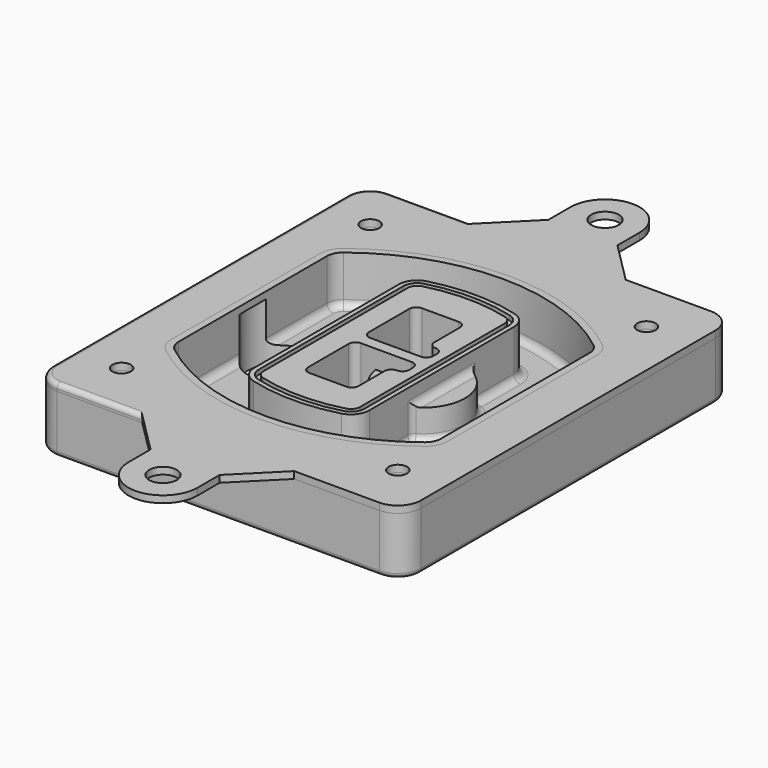
from build123d import *

# Parameters (mm, degrees)
F0_R      = 4
F1_DEPTH  = 25
F2_DEPTH  = 3
F3_DEPTH  = 18
F5_DEPTH  = 21
F6_DEPTH  = 2
F8_DEPTH  = 20
F9_DEPTH  = 16
F10_DEPTH = 25
F7_R      = 6
F7_R_2    = 4
F11_DEPTH = 6
F13_DEPTH = 9
F14_R     = 3
F15_R     = 2
F16_R     = 4
F16_R_2   = 6
F17_DEPTH = 3
F18_R     = 2


with BuildPart() as f1:
    # F0 (on Top) → F1 (new body)
    with BuildSketch(Plane.XY):
        with BuildLine():
            ThreePointArc((-80, -80), (-77.0710678119, -87.0710678119), (-70, -90))
            Line((-70, -90), (70, -90))
            ThreePointArc((70, -90), (77.0710678119, -87.0710678119), (80, -80))
            Line((80, -80), (80, 80))
            ThreePointArc((80, 80), (77.0710678119, 87.0710678119), (70, 90))
            Line((70, 90), (-70, 90))
            ThreePointArc((-70, 90), (-77.0710678119, 87.0710678119), (-80, 80))
            Line((-80, 80), (-80, -80))
        make_face()
        with Locations((-60, -67.5)):
            Circle(F0_R, mode=Mode.SUBTRACT)
        with Locations((60, -67.5)):
            Circle(F0_R, mode=Mode.SUBTRACT)
        with Locations((-60, 67.5)):
            Circle(F0_R, mode=Mode.SUBTRACT)
        with BuildLine():
            ThreePointArc((-64, 40.2934422872), (-62.5820384798, 46.4328484224), (-58.6153846154, 51.3286200352))
            ThreePointArc((-58.6153846154, 51.3286200352), (0, 71.5), (58.6153846154, 51.3286200352))
            ThreePointArc((58.6153846154, 51.3286200352), (62.5820384798, 46.4328484224), (64, 40.2934422872))
            Line((64, 40.2934422872), (64, -40.2934422872))
            ThreePointArc((64, -40.2934422872), (62.5820384798, -46.4328484224), (58.6153846154, -51.3286200352))
            ThreePointArc((58.6153846154, -51.3286200352), (0, -71.5), (-58.6153846154, -51.3286200352))
            ThreePointArc((-58.6153846154, -51.3286200352), (-62.5820384798, -46.4328484224), (-64, -40.2934422872))
            Line((-64, -40.2934422872), (-64, 40.2934422872))
        make_face(mode=Mode.SUBTRACT)
        with Locations((60, 67.5)):
            Circle(F0_R, mode=Mode.SUBTRACT)
        with BuildLine():
            ThreePointArc((58.6153846154, 51.3286200352), (0, 71.5), (-58.6153846154, 51.3286200352))
            ThreePointArc((-58.6153846154, 51.3286200352), (-62.5820384798, 46.4328484224), (-64, 40.2934422872))
            Line((-64, 40.2934422872), (-64, -40.2934422872))
            ThreePointArc((-64, -40.2934422872), (-62.5820384798, -46.4328484224), (-58.6153846154, -51.3286200352))
            ThreePointArc((-58.6153846154, -51.3286200352), (0, -71.5), (58.6153846154, -51.3286200352))
            ThreePointArc((58.6153846154, -51.3286200352), (62.5820384798, -46.4328484224), (64, -40.2934422872))
            Line((64, -40.2934422872), (64, 40.2934422872))
            ThreePointArc((64, 40.2934422872), (62.5820384798, 46.4328484224), (58.6153846154, 51.3286200352))
        make_face()
        with BuildLine():
            Line((-60, -40.2934422872), (-60, 40.2934422872))
            ThreePointArc((-60, 40.2934422872), (-58.9871703427, 44.6787323838), (-56.1538461538, 48.1757121072))
            ThreePointArc((-56.1538461538, 48.1757121072), (0, 67.5), (56.1538461538, 48.1757121072))
            ThreePointArc((56.1538461538, 48.1757121072), (58.9871703427, 44.6787323838), (60, 40.2934422872))
            Line((60, 40.2934422872), (60, -40.2934422872))
            ThreePointArc((60, -40.2934422872), (58.9871703427, -44.6787323838), (56.1538461538, -48.1757121072))
            ThreePointArc((56.1538461538, -48.1757121072), (0, -67.5), (-56.1538461538, -48.1757121072))
            ThreePointArc((-56.1538461538, -48.1757121072), (-58.9871703427, -44.6787323838), (-60, -40.2934422872))
        make_face(mode=Mode.SUBTRACT)
        with BuildLine():
            ThreePointArc((-56.1538461538, 48.1757121072), (-58.9871703427, 44.6787323838), (-60, 40.2934422872))
            Line((-60, 40.2934422872), (-60, -40.2934422872))
            ThreePointArc((-60, -40.2934422872), (-58.9871703427, -44.6787323838), (-56.1538461538, -48.1757121072))
            ThreePointArc((-56.1538461538, -48.1757121072), (0, -67.5), (56.1538461538, -48.1757121072))
            ThreePointArc((56.1538461538, -48.1757121072), (58.9871703427, -44.6787323838), (60, -40.2934422872))
            Line((60, -40.2934422872), (60, 40.2934422872))
            ThreePointArc((60, 40.2934422872), (58.9871703427, 44.6787323838), (56.1538461538, 48.1757121072))
            ThreePointArc((56.1538461538, 48.1757121072), (0, 67.5), (-56.1538461538, 48.1757121072))
        make_face()
        with BuildLine():
            ThreePointArc((54.3076923077, 45.8110311612), (56.2910192399, 43.3631453548), (57, 40.2934422872))
            Line((57, 40.2934422872), (57, -40.2934422872))
            ThreePointArc((57, -40.2934422872), (56.2910192399, -43.3631453548), (54.3076923077, -45.8110311612))
            ThreePointArc((54.3076923077, -45.8110311612), (0, -64.5), (-54.3076923077, -45.8110311612))
            ThreePointArc((-54.3076923077, -45.8110311612), (-56.2910192399, -43.3631453548), (-57, -40.2934422872))
            Line((-57, -40.2934422872), (-57, 40.2934422872))
            ThreePointArc((-57, 40.2934422872), (-56.2910192399, 43.3631453548), (-54.3076923077, 45.8110311612))
            ThreePointArc((-54.3076923077, 45.8110311612), (0, 64.5), (54.3076923077, 45.8110311612))
        make_face(mode=Mode.SUBTRACT)
        with BuildLine():
            Line((57, -40.2934422872), (57, 40.2934422872))
            ThreePointArc((57, 40.2934422872), (56.2910192399, 43.3631453548), (54.3076923077, 45.8110311612))
            ThreePointArc((54.3076923077, 45.8110311612), (0, 64.5), (-54.3076923077, 45.8110311612))
            ThreePointArc((-54.3076923077, 45.8110311612), (-56.2910192399, 43.3631453548), (-57, 40.2934422872))
            Line((-57, 40.2934422872), (-57, -40.2934422872))
            ThreePointArc((-57, -40.2934422872), (-56.2910192399, -43.3631453548), (-54.3076923077, -45.8110311612))
            ThreePointArc((-54.3076923077, -45.8110311612), (0, -64.5), (54.3076923077, -45.8110311612))
            ThreePointArc((54.3076923077, -45.8110311612), (56.2910192399, -43.3631453548), (57, -40.2934422872))
        make_face()
    extrude(amount=-F1_DEPTH)

    # F0 (on Top) → F2 (join)
    with BuildSketch(Plane.XY):
        with BuildLine():
            ThreePointArc((-56.1538461538, 48.1757121072), (-58.9871703427, 44.6787323838), (-60, 40.2934422872))
            Line((-60, 40.2934422872), (-60, -40.2934422872))
            ThreePointArc((-60, -40.2934422872), (-58.9871703427, -44.6787323838), (-56.1538461538, -48.1757121072))
            ThreePointArc((-56.1538461538, -48.1757121072), (0, -67.5), (56.1538461538, -48.1757121072))
            ThreePointArc((56.1538461538, -48.1757121072), (58.9871703427, -44.6787323838), (60, -40.2934422872))
            Line((60, -40.2934422872), (60, 40.2934422872))
            ThreePointArc((60, 40.2934422872), (58.9871703427, 44.6787323838), (56.1538461538, 48.1757121072))
            ThreePointArc((56.1538461538, 48.1757121072), (0, 67.5), (-56.1538461538, 48.1757121072))
        make_face()
        with BuildLine():
            ThreePointArc((54.3076923077, 45.8110311612), (56.2910192399, 43.3631453548), (57, 40.2934422872))
            Line((57, 40.2934422872), (57, -40.2934422872))
            ThreePointArc((57, -40.2934422872), (56.2910192399, -43.3631453548), (54.3076923077, -45.8110311612))
            ThreePointArc((54.3076923077, -45.8110311612), (0, -64.5), (-54.3076923077, -45.8110311612))
            ThreePointArc((-54.3076923077, -45.8110311612), (-56.2910192399, -43.3631453548), (-57, -40.2934422872))
            Line((-57, -40.2934422872), (-57, 40.2934422872))
            ThreePointArc((-57, 40.2934422872), (-56.2910192399, 43.3631453548), (-54.3076923077, 45.8110311612))
            ThreePointArc((-54.3076923077, 45.8110311612), (0, 64.5), (54.3076923077, 45.8110311612))
        make_face(mode=Mode.SUBTRACT)
    extrude(amount=F2_DEPTH)

    # F0 (on Top) → F3 (cut)
    with BuildSketch(Plane.XY):
        with BuildLine():
            Line((57, -40.2934422872), (57, 40.2934422872))
            ThreePointArc((57, 40.2934422872), (56.2910192399, 43.3631453548), (54.3076923077, 45.8110311612))
            ThreePointArc((54.3076923077, 45.8110311612), (0, 64.5), (-54.3076923077, 45.8110311612))
            ThreePointArc((-54.3076923077, 45.8110311612), (-56.2910192399, 43.3631453548), (-57, 40.2934422872))
            Line((-57, 40.2934422872), (-57, -40.2934422872))
            ThreePointArc((-57, -40.2934422872), (-56.2910192399, -43.3631453548), (-54.3076923077, -45.8110311612))
            ThreePointArc((-54.3076923077, -45.8110311612), (0, -64.5), (54.3076923077, -45.8110311612))
            ThreePointArc((54.3076923077, -45.8110311612), (56.2910192399, -43.3631453548), (57, -40.2934422872))
        make_face()
    extrude(amount=-F3_DEPTH, mode=Mode.SUBTRACT)

    # F4 (on face) → F5 (join, through all)
    with BuildSketch(Plane.XY.offset(3)):
        with BuildLine():
            ThreePointArc((-25, -39.2465276821), (-23.3511545998, -44.1109737193), (-19.0842911877, -46.9702398883))
            ThreePointArc((-19.0842911877, -46.9702398883), (0, -49.5), (19.0842911877, -46.9702398883))
            ThreePointArc((19.0842911877, -46.9702398883), (23.3511545998, -44.1109737193), (25, -39.2465276821))
            Line((25, -39.2465276821), (25, 39.2465276821))
            ThreePointArc((25, 39.2465276821), (23.3511545998, 44.1109737193), (19.0842911877, 46.9702398883))
            ThreePointArc((19.0842911877, 46.9702398883), (0, 49.5), (-19.0842911877, 46.9702398883))
            ThreePointArc((-19.0842911877, 46.9702398883), (-23.3511545998, 44.1109737193), (-25, 39.2465276821))
            Line((-25, 39.2465276821), (-25, -39.2465276821))
        make_face()
        with BuildLine():
            ThreePointArc((18.5632183908, 45.0393118368), (21.7633659499, 42.89486221), (23, 39.2465276821))
            Line((23, 39.2465276821), (23, -39.2465276821))
            ThreePointArc((23, -39.2465276821), (21.7633659499, -42.89486221), (18.5632183908, -45.0393118368))
            ThreePointArc((18.5632183908, -45.0393118368), (0, -47.5), (-18.5632183908, -45.0393118368))
            ThreePointArc((-18.5632183908, -45.0393118368), (-21.7633659499, -42.89486221), (-23, -39.2465276821))
            Line((-23, -39.2465276821), (-23, 39.2465276821))
            ThreePointArc((-23, 39.2465276821), (-21.7633659499, 42.89486221), (-18.5632183908, 45.0393118368))
            ThreePointArc((-18.5632183908, 45.0393118368), (0, 47.5), (18.5632183908, 45.0393118368))
        make_face(mode=Mode.SUBTRACT)
        with BuildLine():
            Line((23, -39.2465276821), (23, 39.2465276821))
            ThreePointArc((23, 39.2465276821), (21.7633659499, 42.89486221), (18.5632183908, 45.0393118368))
            ThreePointArc((18.5632183908, 45.0393118368), (0, 47.5), (-18.5632183908, 45.0393118368))
            ThreePointArc((-18.5632183908, 45.0393118368), (-21.7633659499, 42.89486221), (-23, 39.2465276821))
            Line((-23, 39.2465276821), (-23, -39.2465276821))
            ThreePointArc((-23, -39.2465276821), (-21.7633659499, -42.89486221), (-18.5632183908, -45.0393118368))
            ThreePointArc((-18.5632183908, -45.0393118368), (0, -47.5), (18.5632183908, -45.0393118368))
            ThreePointArc((18.5632183908, -45.0393118368), (21.7633659499, -42.89486221), (23, -39.2465276821))
        make_face()
        with BuildLine():
            ThreePointArc((18.0421455939, 43.1083837852), (20.1755772999, 41.6787507007), (21, 39.2465276821))
            Line((21, 39.2465276821), (21, -39.2465276821))
            ThreePointArc((21, -39.2465276821), (20.1755772999, -41.6787507007), (18.0421455939, -43.1083837852))
            ThreePointArc((18.0421455939, -43.1083837852), (0, -45.5), (-18.0421455939, -43.1083837852))
            ThreePointArc((-18.0421455939, -43.1083837852), (-20.1755772999, -41.6787507007), (-21, -39.2465276821))
            Line((-21, -39.2465276821), (-21, 39.2465276821))
            ThreePointArc((-21, 39.2465276821), (-20.1755772999, 41.6787507007), (-18.0421455939, 43.1083837852))
            ThreePointArc((-18.0421455939, 43.1083837852), (0, 45.5), (18.0421455939, 43.1083837852))
        make_face(mode=Mode.SUBTRACT)
        with BuildLine():
            Line((21, -39.2465276821), (21, 39.2465276821))
            ThreePointArc((21, 39.2465276821), (20.1755772999, 41.6787507007), (18.0421455939, 43.1083837852))
            ThreePointArc((18.0421455939, 43.1083837852), (0, 45.5), (-18.0421455939, 43.1083837852))
            ThreePointArc((-18.0421455939, 43.1083837852), (-20.1755772999, 41.6787507007), (-21, 39.2465276821))
            Line((-21, 39.2465276821), (-21, -39.2465276821))
            ThreePointArc((-21, -39.2465276821), (-20.1755772999, -41.6787507007), (-18.0421455939, -43.1083837852))
            ThreePointArc((-18.0421455939, -43.1083837852), (0, -45.5), (18.0421455939, -43.1083837852))
            ThreePointArc((18.0421455939, -43.1083837852), (20.1755772999, -41.6787507007), (21, -39.2465276821))
        make_face()
        with BuildLine():
            Line((-8, -2.5), (14, -2.5))
            ThreePointArc((14, -2.5), (16.1213203436, -3.3786796564), (17, -5.5))
            Line((17, -5.5), (17, -7.5))
            ThreePointArc((17, -7.5), (16.1213203436, -9.6213203436), (14, -10.5))
            ThreePointArc((14, -10.5), (11.8786796564, -11.3786796564), (11, -13.5))
            Line((11, -13.5), (11, -27.5))
            ThreePointArc((11, -27.5), (10.1213203436, -29.6213203436), (8, -30.5))
            Line((8, -30.5), (-8, -30.5))
            ThreePointArc((-8, -30.5), (-10.1213203436, -29.6213203436), (-11, -27.5))
            Line((-11, -27.5), (-11, -5.5))
            ThreePointArc((-11, -5.5), (-10.1213203436, -3.3786796564), (-8, -2.5))
        make_face(mode=Mode.SUBTRACT)
        with BuildLine():
            ThreePointArc((-8, 2.5), (-10.1213203436, 3.3786796564), (-11, 5.5))
            Line((-11, 5.5), (-11, 27.5))
            ThreePointArc((-11, 27.5), (-10.1213203436, 29.6213203436), (-8, 30.5))
            Line((-8, 30.5), (8, 30.5))
            ThreePointArc((8, 30.5), (10.1213203436, 29.6213203436), (11, 27.5))
            Line((11, 27.5), (11, 13.5))
            ThreePointArc((11, 13.5), (11.8786796564, 11.3786796564), (14, 10.5))
            ThreePointArc((14, 10.5), (16.1213203436, 9.6213203436), (17, 7.5))
            Line((17, 7.5), (17, 5.5))
            ThreePointArc((17, 5.5), (16.1213203436, 3.3786796564), (14, 2.5))
            Line((14, 2.5), (-8, 2.5))
        make_face(mode=Mode.SUBTRACT)
    extrude(amount=-F5_DEPTH)

    # F4 (on face) → F6 (cut)
    with BuildSketch(Plane.XY.offset(3)):
        with BuildLine():
            Line((23, -39.2465276821), (23, 39.2465276821))
            ThreePointArc((23, 39.2465276821), (21.7633659499, 42.89486221), (18.5632183908, 45.0393118368))
            ThreePointArc((18.5632183908, 45.0393118368), (0, 47.5), (-18.5632183908, 45.0393118368))
            ThreePointArc((-18.5632183908, 45.0393118368), (-21.7633659499, 42.89486221), (-23, 39.2465276821))
            Line((-23, 39.2465276821), (-23, -39.2465276821))
            ThreePointArc((-23, -39.2465276821), (-21.7633659499, -42.89486221), (-18.5632183908, -45.0393118368))
            ThreePointArc((-18.5632183908, -45.0393118368), (0, -47.5), (18.5632183908, -45.0393118368))
            ThreePointArc((18.5632183908, -45.0393118368), (21.7633659499, -42.89486221), (23, -39.2465276821))
        make_face()
        with BuildLine():
            ThreePointArc((18.0421455939, 43.1083837852), (20.1755772999, 41.6787507007), (21, 39.2465276821))
            Line((21, 39.2465276821), (21, -39.2465276821))
            ThreePointArc((21, -39.2465276821), (20.1755772999, -41.6787507007), (18.0421455939, -43.1083837852))
            ThreePointArc((18.0421455939, -43.1083837852), (0, -45.5), (-18.0421455939, -43.1083837852))
            ThreePointArc((-18.0421455939, -43.1083837852), (-20.1755772999, -41.6787507007), (-21, -39.2465276821))
            Line((-21, -39.2465276821), (-21, 39.2465276821))
            ThreePointArc((-21, 39.2465276821), (-20.1755772999, 41.6787507007), (-18.0421455939, 43.1083837852))
            ThreePointArc((-18.0421455939, 43.1083837852), (0, 45.5), (18.0421455939, 43.1083837852))
        make_face(mode=Mode.SUBTRACT)
    extrude(amount=-F6_DEPTH, mode=Mode.SUBTRACT)

    # F7 (on face) → F8 (join)
    with BuildSketch(Plane(origin=(0, 0, -25), x_dir=(1, 0, 0), z_dir=(0, 0, -1))):
        with BuildLine():
            ThreePointArc((3.28842436, 0), (16.7567035675, 13.4682792075), (30.224982775, 0))
            Line((30.224982775, 0), (35.224982775, 0))
            ThreePointArc((35.224982775, 0), (16.7567035675, 18.4682792075), (-1.71157564, 0))
            Line((-1.71157564, 0), (3.28842436, 0))
        make_face()
        with BuildLine():
            Line((3.28842436, 0), (30.224982775, 0))
            ThreePointArc((30.224982775, 0), (16.7567035675, 13.4682792075), (3.28842436, 0))
        make_face()
        with BuildLine():
            ThreePointArc((3.28842436, 0), (16.7567035675, -13.4682792075), (30.224982775, 0))
            Line((30.224982775, 0), (3.28842436, 0))
        make_face()
        with BuildLine():
            Line((35.224982775, 0), (30.224982775, 0))
            ThreePointArc((30.224982775, 0), (16.7567035675, -13.4682792075), (3.28842436, 0))
            Line((3.28842436, 0), (-1.71157564, 0))
            ThreePointArc((-1.71157564, 0), (16.7567035675, -18.4682792075), (35.224982775, 0))
        make_face()
    extrude(amount=-F8_DEPTH)

    # F7 (on face) → F9 (cut)
    with BuildSketch(Plane(origin=(0, 0, -25), x_dir=(1, 0, 0), z_dir=(0, 0, -1))):
        with BuildLine():
            Line((3.28842436, 0), (30.224982775, 0))
            ThreePointArc((30.224982775, 0), (16.7567035675, 13.4682792075), (3.28842436, 0))
        make_face()
        with BuildLine():
            ThreePointArc((3.28842436, 0), (16.7567035675, -13.4682792075), (30.224982775, 0))
            Line((30.224982775, 0), (3.28842436, 0))
        make_face()
    extrude(amount=-F9_DEPTH, mode=Mode.SUBTRACT)

    # F7 (on face) → F10 (cut)
    with BuildSketch(Plane(origin=(0, 0, -25), x_dir=(1, 0, 0), z_dir=(0, 0, -1))):
        with BuildLine():
            Line((-59.0318229325, 0), (-32.0952645175, 0))
            ThreePointArc((-32.0952645175, 0), (-45.563543725, 13.4682792075), (-59.0318229325, 0))
        make_face()
        with BuildLine():
            ThreePointArc((-59.0318229325, 0), (-45.563543725, -13.4682792075), (-32.0952645175, 0))
            Line((-32.0952645175, 0), (-59.0318229325, 0))
        make_face()
    extrude(amount=-F10_DEPTH, mode=Mode.SUBTRACT)

    # F7 (on face) → F11 (cut)
    with BuildSketch(Plane(origin=(0, 0, -25), x_dir=(1, 0, 0), z_dir=(0, 0, -1))):
        with Locations((60, -67.5)):
            Circle(F7_R)
        with Locations((60, -67.5)):
            Circle(F7_R_2, mode=Mode.SUBTRACT)
        with Locations((60, -67.5)):
            Circle(F7_R)
        with Locations((60, -67.5)):
            Circle(F7_R_2, mode=Mode.SUBTRACT)
        with Locations((-60, -67.5)):
            Circle(F7_R)
        with Locations((-60, -67.5)):
            Circle(F7_R_2, mode=Mode.SUBTRACT)
        with Locations((-60, -67.5)):
            Circle(F7_R)
        with Locations((-60, -67.5)):
            Circle(F7_R_2, mode=Mode.SUBTRACT)
        with Locations((-60, 67.5)):
            Circle(F7_R)
        with Locations((-60, 67.5)):
            Circle(F7_R_2, mode=Mode.SUBTRACT)
        with Locations((-60, 67.5)):
            Circle(F7_R)
        with Locations((-60, 67.5)):
            Circle(F7_R_2, mode=Mode.SUBTRACT)
        with Locations((60, 67.5)):
            Circle(F7_R)
        with Locations((60, 67.5)):
            Circle(F7_R_2, mode=Mode.SUBTRACT)
        with Locations((60, 67.5)):
            Circle(F7_R)
        with Locations((60, 67.5)):
            Circle(F7_R_2, mode=Mode.SUBTRACT)
    extrude(amount=-F11_DEPTH, mode=Mode.SUBTRACT)

    # F12 (on face) → F13 (cut, through all)
    with BuildSketch(Plane(origin=(0, 0, -9), x_dir=(1, 0, 0), z_dir=(0, 0, -1))):
        with BuildLine():
            Line((11, 13.5), (11, 17.5481537753))
            ThreePointArc((11, 17.5481537753), (2.5696536419, 11.8239143813), (-1.5415842455, 2.5))
            Line((-1.5415842455, 2.5), (3.5224848595, 2.5))
            ThreePointArc((3.5224848595, 2.5), (6.1857188154, 8.3455872281), (11.2536447004, 12.2927168648))
            ThreePointArc((11.2536447004, 12.2927168648), (11.0640958889, 12.8831798879), (11, 13.5))
        make_face()
        with BuildLine():
            ThreePointArc((11.2536447004, -12.2927168648), (6.1857188154, -8.3455872281), (3.5224848595, -2.5))
            Line((3.5224848595, -2.5), (-1.5415842455, -2.5))
            ThreePointArc((-1.5415842455, -2.5), (2.5696536419, -11.8239143813), (11, -17.5481537753))
            Line((11, -17.5481537753), (11, -13.5))
            ThreePointArc((11, -13.5), (11.0640958889, -12.8831798879), (11.2536447004, -12.2927168648))
        make_face()
        with BuildLine():
            ThreePointArc((11.2536447004, 12.2927168648), (6.1857188154, 8.3455872281), (3.5224848595, 2.5))
            Line((3.5224848595, 2.5), (14, 2.5))
            ThreePointArc((14, 2.5), (16.1213203436, 3.3786796564), (17, 5.5))
            Line((17, 5.5), (17, 7.5))
            ThreePointArc((17, 7.5), (16.1213203436, 9.6213203436), (14, 10.5))
            ThreePointArc((14, 10.5), (12.3601599782, 10.9878446101), (11.2536447004, 12.2927168648))
        make_face()
        with BuildLine():
            Line((14, -2.5), (3.5224848595, -2.5))
            ThreePointArc((3.5224848595, -2.5), (6.1857188154, -8.3455872281), (11.2536447004, -12.2927168648))
            ThreePointArc((11.2536447004, -12.2927168648), (12.3601599782, -10.9878446101), (14, -10.5))
            ThreePointArc((14, -10.5), (16.1213203436, -9.6213203436), (17, -7.5))
            Line((17, -7.5), (17, -5.5))
            ThreePointArc((17, -5.5), (16.1213203436, -3.3786796564), (14, -2.5))
        make_face()
    extrude(amount=F13_DEPTH, mode=Mode.SUBTRACT)

    # F14
    f14_edges = [f1.edges().sort_by_distance(p)[0] for p in [
        (-57, -23.703476, -18),
        (-57, 23.703476, -18),
        (25, 0, -5),
        (25, 16.526506, -11.5),
        (25, -16.526506, -11.5),
        (25, -27.886517, -18),
        (35.224983, 0, -18),
    ]]
    fillet(f14_edges, radius=F14_R)

    # F15
    f15_edges = [f1.edges().sort_by_distance(p)[0] for p in [
        (0, -90, -25),
    ]]
    fillet(f15_edges, radius=F15_R)


with BuildPart() as f17:
    # F16 (on face) → F17 (new body, through all)
    with BuildSketch(Plane.XY):
        with BuildLine():
            Line((-33, 90), (-70, 90))
            ThreePointArc((-70, 90), (-77.0710678119, 87.0710678119), (-80, 80))
            Line((-80, 80), (-80, -80))
            ThreePointArc((-80, -80), (-77.0710678119, -87.0710678119), (-70, -90))
            Line((-70, -90), (-33, -90))
            Line((-33, -90), (33, -90))
            Line((33, -90), (70, -90))
            ThreePointArc((70, -90), (77.0710678119, -87.0710678119), (80, -80))
            Line((80, -80), (80, 80))
            ThreePointArc((80, 80), (77.0710678119, 87.0710678119), (70, 90))
            Line((70, 90), (33, 90))
            Line((33, 90), (-33, 90))
        make_face()
        with Locations((-60, -67.5)):
            Circle(F16_R, mode=Mode.SUBTRACT)
        with Locations((60, -67.5)):
            Circle(F16_R, mode=Mode.SUBTRACT)
        with Locations((-60, 67.5)):
            Circle(F16_R, mode=Mode.SUBTRACT)
        with BuildLine():
            ThreePointArc((-56.1538461538, 48.1757121072), (0, 67.5), (56.1538461538, 48.1757121072))
            ThreePointArc((56.1538461538, 48.1757121072), (58.9871703427, 44.6787323838), (60, 40.2934422872))
            Line((60, 40.2934422872), (60, -40.2934422872))
            ThreePointArc((60, -40.2934422872), (58.9871703427, -44.6787323838), (56.1538461538, -48.1757121072))
            ThreePointArc((56.1538461538, -48.1757121072), (0, -67.5), (-56.1538461538, -48.1757121072))
            ThreePointArc((-56.1538461538, -48.1757121072), (-58.9871703427, -44.6787323838), (-60, -40.2934422872))
            Line((-60, -40.2934422872), (-60, 40.2934422872))
            ThreePointArc((-60, 40.2934422872), (-58.9871703427, 44.6787323838), (-56.1538461538, 48.1757121072))
        make_face(mode=Mode.SUBTRACT)
        with Locations((60, 67.5)):
            Circle(F16_R, mode=Mode.SUBTRACT)
        with BuildLine():
            Line((-15, 108), (-33, 90))
            Line((-33, 90), (33, 90))
            Line((33, 90), (15, 108))
            Line((15, 108), (15, 120))
            ThreePointArc((15, 120), (0, 135), (-15, 120))
            Line((-15, 120), (-15, 108))
        make_face()
        with Locations((0, 120)):
            Circle(F16_R_2, mode=Mode.SUBTRACT)
        with BuildLine():
            Line((33, -90), (-33, -90))
            Line((-33, -90), (-15, -108))
            Line((-15, -108), (-15, -120))
            ThreePointArc((-15, -120), (0, -135), (15, -120))
            Line((15, -120), (15, -108))
            Line((15, -108), (33, -90))
        make_face()
        with Locations((0, -120)):
            Circle(F16_R_2, mode=Mode.SUBTRACT)
    extrude(amount=F17_DEPTH)

    # F18
    f18_edges = [f17.edges().sort_by_distance(p)[0] for p in [
        (-80, 0, 3),
    ]]
    fillet(f18_edges, radius=F18_R)


solid = Compound([f1.part, f17.part])
